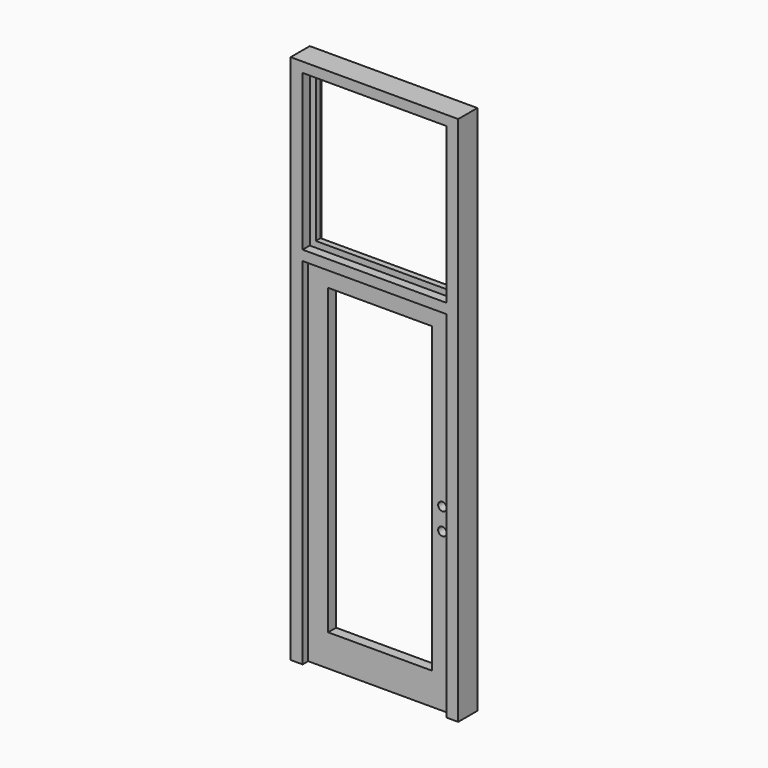
from build123d import *

# Parameters (mm, degrees)
F0_W      = 1066.8
F0_H      = 3378.2
F1_DEPTH  = 76.2
F2_W      = 914.4
F2_H      = 2260.6
F2_H_2    = 990.6
F3_DEPTH  = 152.401
F4_W      = 914.4
F4_H      = 990.6
F5_DEPTH  = 19.05
F6_W      = 914.4
F6_H      = 2260.6
F7_DEPTH  = 31.75
F8_W      = 660.4
F8_H      = 1930.4
F9_DEPTH  = 107.951
F10_W     = 838.2
F10_H     = 914.4
F11_DEPTH = 95.251
F12_R     = 26.9875
F13_DEPTH = 107.951


with BuildPart() as f1:
    # F0 (on Front) → F1 (new body, symmetric)
    with BuildSketch(Plane.XZ):
        Rectangle(F0_W, F0_H)
    extrude(amount=F1_DEPTH, both=True)

    # F2 (on face) → F3 (cut, through all)
    with BuildSketch(Plane.XZ.offset(76.2)):
        with Locations((0, -558.8)):
            Rectangle(F2_W, F2_H)
        with Locations((0, 1130.3)):
            Rectangle(F2_W, F2_H_2)
    extrude(amount=-F3_DEPTH, mode=Mode.SUBTRACT)


with BuildPart() as f5:
    # F4 (on Front) → F5 (new body, symmetric)
    with BuildSketch(Plane.XZ):
        with Locations((0, 1130.3)):
            Rectangle(F4_W, F4_H)
    extrude(amount=F5_DEPTH, both=True)

    # F10 (on face) → F11 (cut, through all)
    with BuildSketch(Plane.XZ.offset(19.05)):
        with Locations((0, 1130.3)):
            Rectangle(F10_W, F10_H)
    extrude(amount=-F11_DEPTH, mode=Mode.SUBTRACT)


with BuildPart() as f7:
    # F6 (on Front) → F7 (new body, symmetric)
    with BuildSketch(Plane.XZ):
        with Locations((0, -558.8)):
            Rectangle(F6_W, F6_H)
    extrude(amount=F7_DEPTH, both=True)

    # F8 (on face) → F9 (cut, through all)
    with BuildSketch(Plane.XZ.offset(31.75)):
        with Locations((0, -520.7)):
            Rectangle(F8_W, F8_H)
    extrude(amount=-F9_DEPTH, mode=Mode.SUBTRACT)

    # F12 (on face) → F13 (cut, through all)
    with BuildSketch(Plane.XZ.offset(31.75)):
        with Locations((396.875, -684.2125)):
            Circle(F12_R)
        with Locations((396.875, -544.5125)):
            Circle(F12_R)
    extrude(amount=-F13_DEPTH, mode=Mode.SUBTRACT)


solid = Compound([f1.part, f5.part, f7.part])
